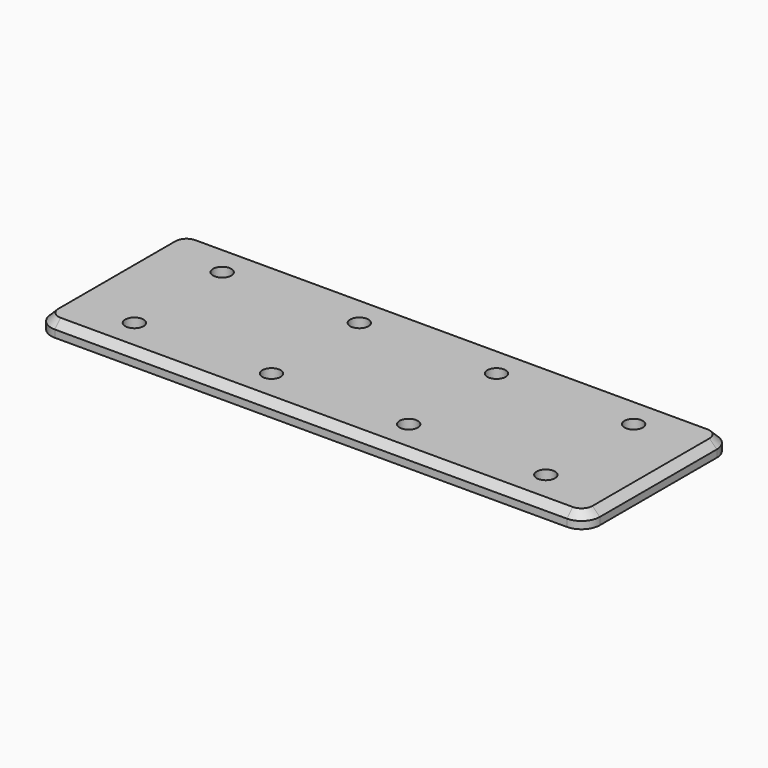
from build123d import *

# Parameters (mm, degrees)
F0_W     = 150
F0_H     = 50
F1_DEPTH = 4
F3_D     = 5
F4_R     = 5
F5_SIZE  = 2


with BuildPart() as f1:
    # F0 (on Top) → F1 (new body)
    with BuildSketch(Plane.XY):
        Rectangle(F0_W, F0_H)
    extrude(amount=F1_DEPTH)

    # F3 (through all)
    with Locations(Plane.XY.offset(4)):
        with Locations((-56.25, 15), (-56.25, -15), (-18.75, -15), (-18.75, 15), (18.75, 15), (18.75, -15), (56.25, -15), (56.25, 15)):
            Hole(F3_D / 2)

    # F4
    f4_edges = [f1.edges().sort_by_distance(p)[0] for p in [
        (-75, 25, 2),
        (-75, -25, 2),
        (75, -25, 2),
        (75, 25, 2),
    ]]
    fillet(f4_edges, radius=F4_R)

    # F5
    f5_edges = [f1.edges().sort_by_distance(p)[0] for p in [
        (0, -25, 4),
    ]]
    chamfer(f5_edges, length=F5_SIZE)


solid = f1.part
